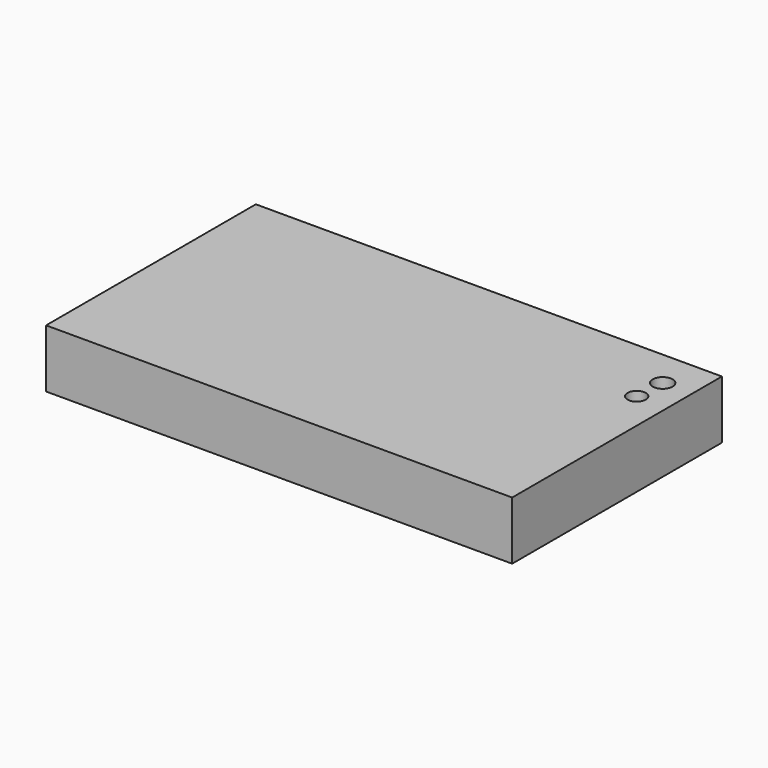
from build123d import *

# Parameters (mm, degrees)
SKETCH_W      = 32
SKETCH_H      = 18
PAD_DEPTH     = 4
SKETCH001_R   = 0.682561
SKETCH001_R_2 = 0.628548
POCKET_DEPTH  = 1


with BuildPart() as part:
    # Sketch → Pad (new body)
    with BuildSketch(Plane.XY):
        with Locations((0, 9)):
            Rectangle(SKETCH_W, SKETCH_H)
    extrude(amount=PAD_DEPTH)

    # Sketch001 (on Face6 of Pad) → Pocket (cut)
    with BuildSketch(Plane.XY.offset(4)):
        with Locations((13.989643, 15.427134)):
            Circle(SKETCH001_R)
        with Locations((13.867546, 13.351432)):
            Circle(SKETCH001_R_2)
    extrude(amount=-POCKET_DEPTH, mode=Mode.SUBTRACT)


solid = part.part
